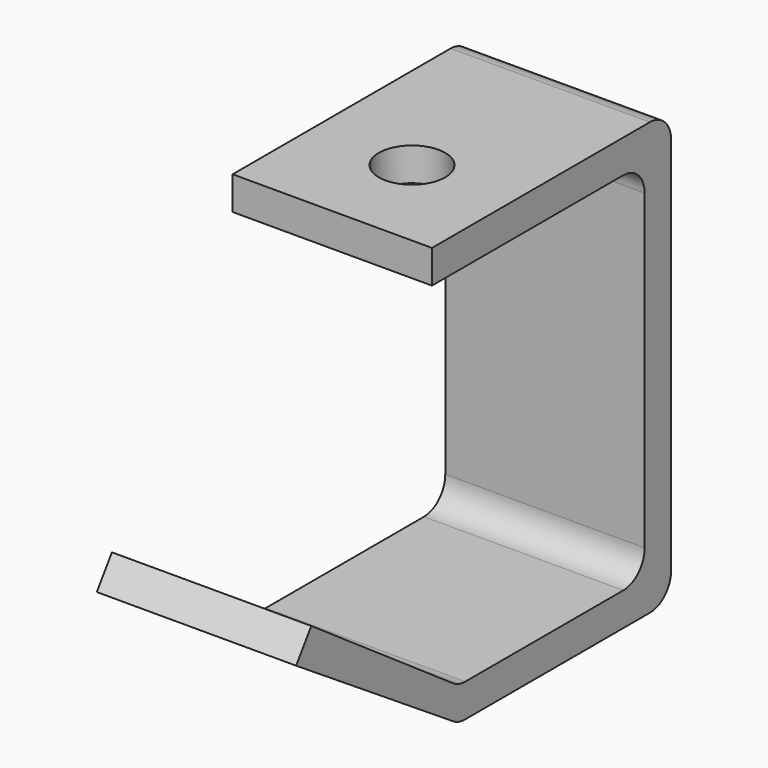
from build123d import *

# Parameters (mm, degrees)
F0_W      = 38.1
F0_H      = 82.55
F1_DEPTH  = 57.15
F3_DEPTH  = 48.006
F5_DEPTH  = 38.1
F6_R      = 5.08
F7_R      = 5.08
F8_R      = 5.08
F9_R      = 5.08
F10_R     = 5.08
F11_R     = 6.35
F12_DEPTH = 25.4


with BuildPart() as f1:
    # F0 (on Front) → F1 (new body)
    with BuildSketch(Plane.XZ):
        Rectangle(F0_W, F0_H)
    extrude(amount=F1_DEPTH)

    # F2 (on face) → F3 (cut)
    with BuildSketch(Plane.YZ.offset(19.05)):
        Polygon((-6.35, 34.925), (-57.15, 34.925), (-57.15, -41.275), (-50.8, -41.275), (-50.8, -34.925), (-6.35, -34.925), align=None)
    extrude(amount=-F3_DEPTH, mode=Mode.SUBTRACT)

    # F4 (on face) → F5 (join)
    with BuildSketch(Plane.YZ.offset(19.05)):
        Polygon((-50.8, -41.275), (-50.8, -34.925), (-85.9860533047, -10.6037642213), (-89.5966880699, -15.8273469566), align=None)
    extrude(amount=-F5_DEPTH)

    # F6
    f6_edges = [f1.edges().sort_by_distance(p)[0] for p in [
        (0, 0, 41.275),
    ]]
    fillet(f6_edges, radius=F6_R)

    # F7
    f7_edges = [f1.edges().sort_by_distance(p)[0] for p in [
        (0, -6.35, 34.925),
    ]]
    fillet(f7_edges, radius=F7_R)

    # F8
    f8_edges = [f1.edges().sort_by_distance(p)[0] for p in [
        (0, 0, -41.275),
    ]]
    fillet(f8_edges, radius=F8_R)

    # F9
    f9_edges = [f1.edges().sort_by_distance(p)[0] for p in [
        (0, -6.35, -34.925),
    ]]
    fillet(f9_edges, radius=F9_R)

    # F10
    f10_edges = [f1.edges().sort_by_distance(p)[0] for p in [
        (0, -50.8, -34.925),
        (0, -50.8, -41.275),
    ]]
    fillet(f10_edges, radius=F10_R)

    # F11 (on face) → F12 (cut)
    with BuildSketch(Plane.XY.offset(41.275)):
        with Locations((0, -38.1)):
            Circle(F11_R)
    extrude(amount=-F12_DEPTH, mode=Mode.SUBTRACT)


solid = f1.part
